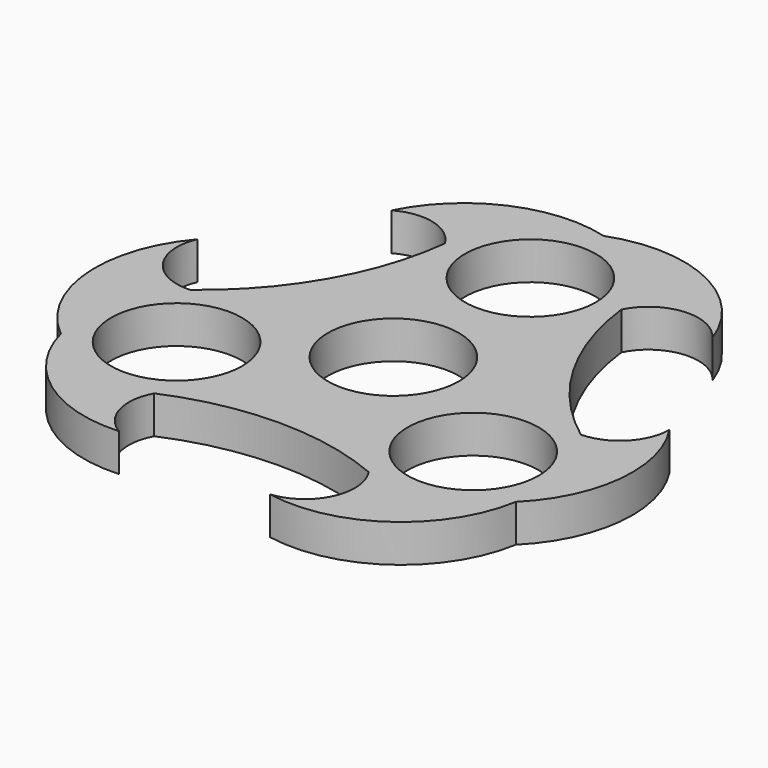
from build123d import *

# Parameters (mm, degrees)
F1_DEPTH = 6.35
F2_R     = 11.0236
F3_DEPTH = 25.4


with BuildPart() as f1:
    # F0 (on Top) → F1 (new body)
    with BuildSketch(Plane.XY):
        with BuildLine():
            ThreePointArc((-14.1227196697, -4.8197298038), (-12.923264088, 7.46125), (-2.8873513853, 14.6404989064))
            ThreePointArc((-2.8873513853, 14.6404989064), (-11.599705615, 19.8933550897), (-14.9207519912, 29.509397169))
            ThreePointArc((-14.9207519912, 29.509397169), (-20.666760531, 12.0600118238), (-32.819337954, -1.7172348184))
            ThreePointArc((-32.819337954, -1.7172348184), (-22.9152697066, 0.0806982345), (-14.1227196697, -4.8197298038))
        make_face()
        with BuildLine():
            ThreePointArc((-2.8873513853, 14.6404989064), (0, 14.3584978127), (2.8873513853, 14.6404989064))
            ThreePointArc((2.8873513853, 14.6404989064), (0, 14.9225), (-2.8873513853, 14.6404989064))
        make_face()
        with BuildLine():
            ThreePointArc((41.2502512136, 6.5161159055), (38.8277981147, 0.6703992328), (33.0162635944, -1.8329483165))
            ThreePointArc((33.0162635944, -1.8329483165), (38.3380750927, -7.2783701294), (40.280587954, -14.6404989064))
            ThreePointArc((40.280587954, -14.6404989064), (39.7721160968, -18.5027261069), (38.281352042, -22.1017489064))
            ThreePointArc((38.281352042, -22.1017489064), (44.8813052866, -8.3235134855), (41.2502512136, 6.5161159055))
        make_face()
        with BuildLine():
            ThreePointArc((38.281352042, -22.1017489064), (29.2203151545, -29.0545270492), (17.896837954, -27.5637629943))
            ThreePointArc((17.896837954, -27.5637629943), (18.5170992246, -35.8225420738), (11.759015573, -40.6100739312))
            ThreePointArc((11.759015573, -40.6100739312), (28.896139215, -36.910135981), (38.281352042, -22.1017489064))
        make_face()
        with BuildLine():
            ThreePointArc((2.8873513853, 14.6404989064), (11.5275215744, 9.4761412295), (14.9225, 0))
            ThreePointArc((14.9225, 0), (14.7211971409, -2.4428182474), (14.1227196697, -4.8197298038))
            ThreePointArc((14.1227196697, -4.8197298038), (23.0280036817, 0.0989621941), (33.0162635944, -1.8329483165))
            ThreePointArc((33.0162635944, -1.8329483165), (20.7776568749, 11.8679337218), (14.9225, 29.2809978127))
            ThreePointArc((14.9225, 29.2809978127), (11.5275215744, 19.8048565833), (2.8873513853, 14.6404989064))
        make_face()
        with BuildLine():
            ThreePointArc((17.896837954, -27.5637629943), (11.3877481322, -19.8855548178), (11.2353682843, -9.8207691025))
            ThreePointArc((11.2353682843, -9.8207691025), (0, -14.9225), (-11.2353682843, -9.8207691025))
            ThreePointArc((-11.2353682843, -9.8207691025), (-10.6368908131, -12.197680659), (-10.435587954, -14.6404989064))
            ThreePointArc((-10.435587954, -14.6404989064), (-12.4923038379, -22.2004331208), (-18.0955116031, -27.6764488525))
            ThreePointArc((-18.0955116031, -27.6764488525), (-0.1108963439, -23.9279455457), (17.896837954, -27.5637629943))
        make_face()
        with BuildLine():
            ThreePointArc((-2.8873513853, 14.6404989064), (0, 14.9225), (2.8873513853, 14.6404989064))
            ThreePointArc((2.8873513853, 14.6404989064), (11.5275215744, 19.8048565833), (14.9225, 29.2809978127))
            ThreePointArc((14.9225, 29.2809978127), (10.5518009423, 39.832798755), (0, 44.2034978127))
            ThreePointArc((0, 44.2034978127), (-10.4707381988, 39.913243475), (-14.9207519912, 29.509397169))
            ThreePointArc((-14.9207519912, 29.509397169), (-11.599705615, 19.8933550897), (-2.8873513853, 14.6404989064))
        make_face()
        with BuildLine():
            ThreePointArc((14.1227196697, -4.8197298038), (14.7211971409, -2.4428182474), (14.9225, 0))
            ThreePointArc((14.9225, 0), (11.5275215744, 9.4761412295), (2.8873513853, 14.6404989064))
            ThreePointArc((2.8873513853, 14.6404989064), (0, 14.3584978127), (-2.8873513853, 14.6404989064))
            ThreePointArc((-2.8873513853, 14.6404989064), (-12.923264088, 7.46125), (-14.1227196697, -4.8197298038))
            ThreePointArc((-14.1227196697, -4.8197298038), (-12.434823866, -7.1792489064), (-11.2353682843, -9.8207691025))
            ThreePointArc((-11.2353682843, -9.8207691025), (0, -14.9225), (11.2353682843, -9.8207691025))
            ThreePointArc((11.2353682843, -9.8207691025), (12.434823866, -7.1792489064), (14.1227196697, -4.8197298038))
        make_face()
        with BuildLine():
            ThreePointArc((-11.2353682843, -9.8207691025), (-12.923264088, -7.46125), (-14.1227196697, -4.8197298038))
            ThreePointArc((-14.1227196697, -4.8197298038), (-22.9152697066, 0.0806982345), (-32.819337954, -1.7172348184))
            ThreePointArc((-32.819337954, -1.7172348184), (-39.7721160968, -10.7782717058), (-38.281352042, -22.1017489064))
            ThreePointArc((-38.281352042, -22.1017489064), (-29.3305136974, -29.024547014), (-18.0955116031, -27.6764488525))
            ThreePointArc((-18.0955116031, -27.6764488525), (-12.4923038379, -22.2004331208), (-10.435587954, -14.6404989064))
            ThreePointArc((-10.435587954, -14.6404989064), (-10.6368908131, -12.197680659), (-11.2353682843, -9.8207691025))
        make_face()
        with BuildLine():
            ThreePointArc((33.0162635944, -1.8329483165), (23.0280036817, 0.0989621941), (14.1227196697, -4.8197298038))
            ThreePointArc((14.1227196697, -4.8197298038), (12.923264088, -7.46125), (11.2353682843, -9.8207691025))
            ThreePointArc((11.2353682843, -9.8207691025), (11.3877481322, -19.8855548178), (17.896837954, -27.5637629943))
            ThreePointArc((17.896837954, -27.5637629943), (29.2203151545, -29.0545270492), (38.281352042, -22.1017489064))
            ThreePointArc((38.281352042, -22.1017489064), (39.7721160968, -18.5027261069), (40.280587954, -14.6404989064))
            ThreePointArc((40.280587954, -14.6404989064), (38.3380750927, -7.2783701294), (33.0162635944, -1.8329483165))
        make_face()
        with BuildLine():
            ThreePointArc((0, 44.2034978127), (10.5518009423, 39.832798755), (14.9225, 29.2809978127))
            ThreePointArc((14.9225, 29.2809978127), (21.7646818518, 33.9475493698), (29.2898478875, 30.4886431753))
            ThreePointArc((29.2898478875, 30.4886431753), (17.5170458091, 43.479858622), (0, 44.2034978127))
        make_face()
        with BuildLine():
            ThreePointArc((-26.268247515, 32.4657075107), (-19.9944818236, 33.290659924), (-14.9207519912, 29.509397169))
            ThreePointArc((-14.9207519912, 29.509397169), (-10.4707381988, 39.913243475), (0, 44.2034978127))
            ThreePointArc((0, 44.2034978127), (-15.2322785161, 43.030107276), (-26.268247515, 32.4657075107))
        make_face()
        with BuildLine():
            ThreePointArc((-38.281352042, -22.1017489064), (-39.7721160968, -10.7782717058), (-32.819337954, -1.7172348184))
            ThreePointArc((-32.819337954, -1.7172348184), (-40.2817810764, 1.874992704), (-41.0488634605, 10.1214307559))
            ThreePointArc((-41.0488634605, 10.1214307559), (-46.4131850242, -6.569722641), (-38.281352042, -22.1017489064))
        make_face()
        with BuildLine():
            ThreePointArc((-14.9820036986, -38.9818234162), (-18.8333162911, -33.9610591567), (-18.0955116031, -27.6764488525))
            ThreePointArc((-18.0955116031, -27.6764488525), (-29.3305136974, -29.024547014), (-38.281352042, -22.1017489064))
            ThreePointArc((-38.281352042, -22.1017489064), (-29.6490267705, -34.7065937905), (-14.9820036986, -38.9818234162))
        make_face()
        with BuildLine():
            ThreePointArc((-11.2353682843, -9.8207691025), (-12.434823866, -7.1792489064), (-14.1227196697, -4.8197298038))
            ThreePointArc((-14.1227196697, -4.8197298038), (-12.923264088, -7.46125), (-11.2353682843, -9.8207691025))
        make_face()
        with BuildLine():
            ThreePointArc((11.2353682843, -9.8207691025), (12.923264088, -7.46125), (14.1227196697, -4.8197298038))
            ThreePointArc((14.1227196697, -4.8197298038), (12.434823866, -7.1792489064), (11.2353682843, -9.8207691025))
        make_face()
    extrude(amount=F1_DEPTH)

    # F2 (on face) → F3 (cut)
    with BuildSketch(Plane.XY.offset(6.35)):
        Circle(F2_R)
        with Locations((0, 28.8153796576)):
            Circle(F2_R)
        with Locations((-24.9548508032, -14.4076898288)):
            Circle(F2_R)
        with Locations((24.9548508032, -14.4076898288)):
            Circle(F2_R)
    extrude(amount=-F3_DEPTH, mode=Mode.SUBTRACT)


solid = f1.part
